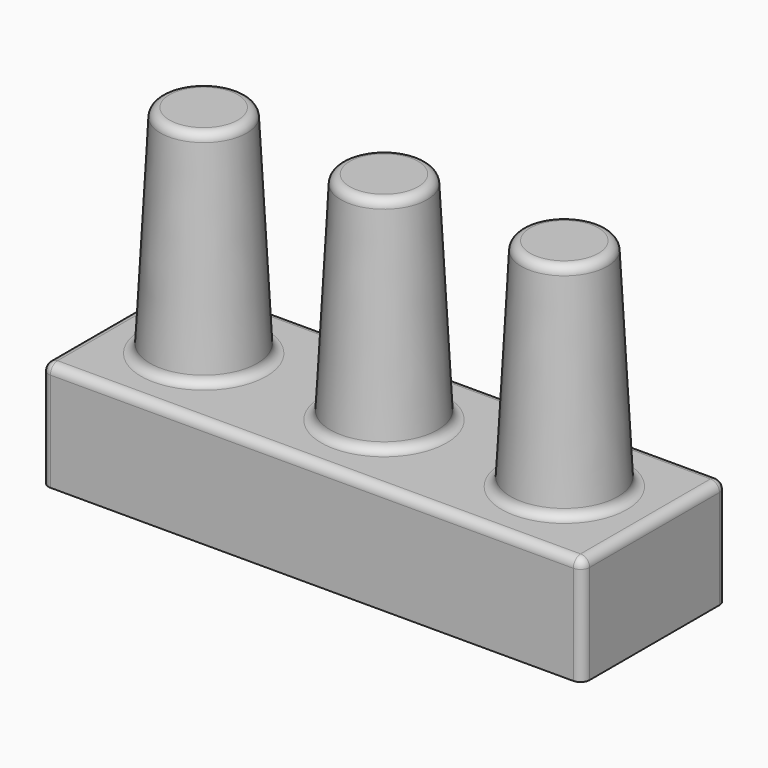
from build123d import *

# Parameters (mm, degrees)
F0_W     = 190.5
F0_H     = 63.5
F4_DEPTH = 38.1
F1_R     = 19.05
F2_DEPTH = 76.2
F2_TAPER = 3
F3_R     = 3.175
F5_T     = -1.5875


with BuildPart() as f4:
    # F0 (on Top) → F4 (new body)
    with BuildSketch(Plane.XY):
        Rectangle(F0_W, F0_H)
    extrude(amount=F4_DEPTH)

    # F1 (on face) → F2 (join)
    with BuildSketch(Plane.XY.offset(38.1)):
        with Locations((-63.5, 0)):
            Circle(F1_R)
        Circle(F1_R)
        with Locations((63.5, 0)):
            Circle(F1_R)
    extrude(amount=F2_DEPTH, taper=F2_TAPER)

    # F3
    f3_edges = [f4.edges().sort_by_distance(p)[0] for p in [
        (95.25, -31.75, 19.05),
        (95.25, 0, 38.1),
        (95.25, 31.75, 19.05),
        (0, 31.75, 38.1),
        (-95.25, 31.75, 19.05),
        (-95.25, -31.75, 19.05),
        (-78.556527, 0, 114.3),
        (-15.056527, 0, 114.3),
        (48.443473, 0, 114.3),
        (-95.25, 0, 38.1),
        (44.45, 0, 38.1),
        (-19.05, 0, 38.1),
        (0, -31.75, 38.1),
        (-82.55, 0, 38.1),
    ]]
    fillet(f3_edges, radius=F3_R)

    # F5
    f5_openings = [f4.faces().sort_by_distance(p)[0] for p in [
        (0, 0, 0),
    ]]
    offset(amount=F5_T, openings=f5_openings)


solid = f4.part
